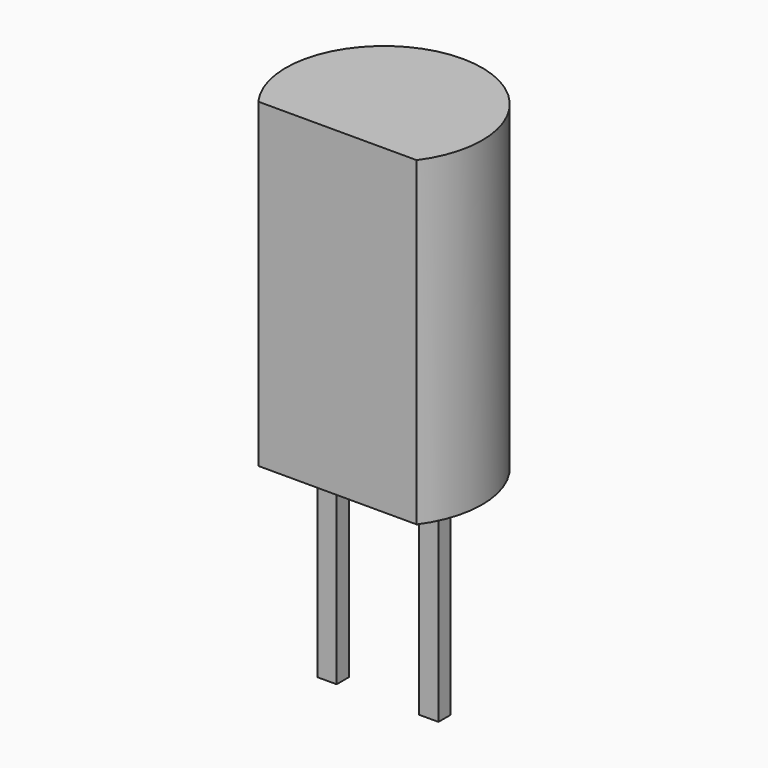
from build123d import *

# Parameters (mm, degrees)
SKETCH001_W  = 0.48
SKETCH001_H  = 0.38
PAD001_DEPTH = 5
PAD_DEPTH    = 8


with BuildPart() as pad001:
    # Sketch001 → Pad001 (new body)
    with BuildSketch(Plane.XY.offset(2.5)):
        Rectangle(SKETCH001_W, SKETCH001_H)
        with Locations((2.54, 0)):
            Rectangle(SKETCH001_W, SKETCH001_H)
    extrude(amount=-PAD001_DEPTH)


with BuildPart() as to_92l_2_narrow:
    # Sketch → Pad (new body)
    with BuildSketch(Plane.XY.offset(2.5)):
        with BuildLine():
            Line((-0.704842, -1.45), (3.244842, -1.45))
            ThreePointArc((3.244842, -1.45), (1.27, 2.45), (-0.704842, -1.45))
        make_face()
    extrude(amount=PAD_DEPTH)

    add(pad001.part)


solid = to_92l_2_narrow.part
